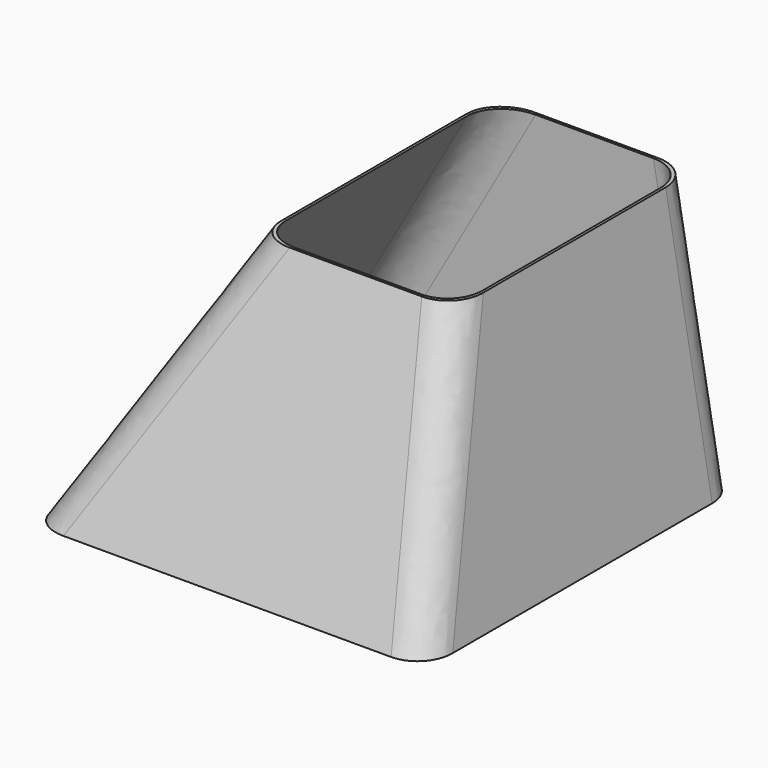
from build123d import *

# Parameters (mm, degrees)
F2_W = 22.7
F2_H = 34
F0_W = 45
F0_H = 45
F4_W = 22.1
F4_H = 33.4
F5_W = 44.4
F5_H = 44.4
F7_R = 4
F8_R = 4


with BuildPart() as f3:
    # F2 (on offset) → F3 section 0
    with BuildSketch(Plane.XY.offset(30)):
        with Locations((-16.65, 28)):
            Rectangle(F2_W, F2_H)
    # F0 (on Top) → F3 section 1
    with BuildSketch(Plane.XY):
        with Locations((-22.5, 22.5)):
            Rectangle(F0_W, F0_H)
    loft()

    # F4 (on face) → F6 section 0
    with BuildSketch(Plane.XY.offset(30)):
        with Locations((-16.65, 28)):
            Rectangle(F4_W, F4_H)
    # F5 (on face) → F6 section 1
    with BuildSketch(Plane(origin=(0, 0, 0), x_dir=(1, 0, 0), z_dir=(0, 0, -1))):
        with Locations((-22.5, -22.5)):
            Rectangle(F5_W, F5_H)
    loft(mode=Mode.SUBTRACT)

    # F7
    f7_edges = [f3.edges().sort_by_distance(p)[0] for p in [
        (-36.2, 44.7, 15),
        (-36.2, 5.8, 15),
        (-2.95, 5.8, 15),
        (-2.95, 44.7, 15),
    ]]
    fillet(f7_edges, radius=F7_R)

    # F8
    f8_edges = [f3.edges().sort_by_distance(p)[0] for p in [
        (-36.5, 5.5, 15),
        (-36.5, 45, 15),
        (-2.65, 5.5, 15),
        (-2.65, 45, 15),
    ]]
    fillet(f8_edges, radius=F8_R)


solid = f3.part
